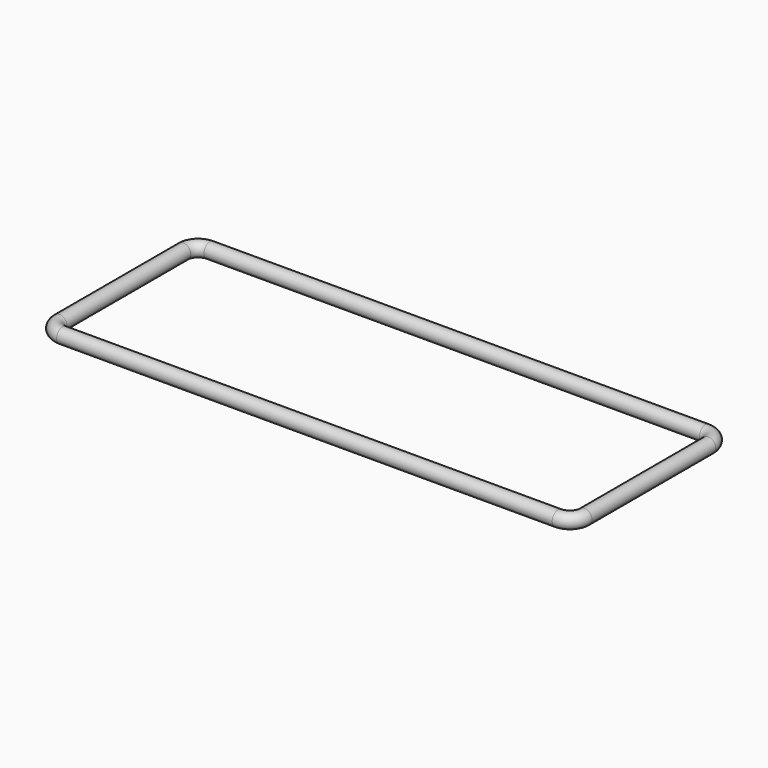
from build123d import *

# Parameters (mm, degrees)
F2_R = 20


with BuildPart() as f3:
    # F3: sweep along a path in F0
    with BuildLine(Plane.XY) as f3_path:
        Line((-672.5, 250), (672.5, 250))
        ThreePointArc((672.5, 250), (700.7842712475, 238.2842712475), (712.5, 210))
        Line((712.5, 210), (712.5, -210))
        ThreePointArc((712.5, -210), (700.7842712475, -238.2842712475), (672.5, -250))
        Line((672.5, -250), (-672.5, -250))
        ThreePointArc((-672.5, -250), (-700.7842712475, -238.2842712475), (-712.5, -210))
        Line((-712.5, -210), (-712.5, 210))
        ThreePointArc((-712.5, 210), (-700.7842712475, 238.2842712475), (-672.5, 250))
    # F2 (on offset) → F3 (sweep)
    with BuildSketch(Plane.YZ.offset(672.5)):
        with Locations((250, 0)):
            Circle(F2_R)
    sweep(path=f3_path.line)


solid = f3.part
